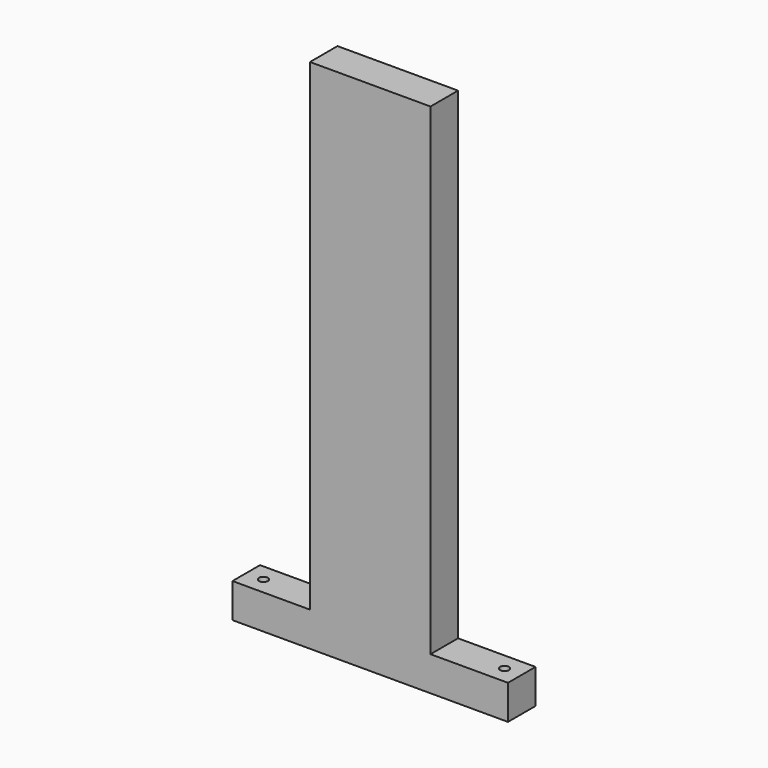
from build123d import *

# Parameters (mm, degrees)
F0_W     = 203.2
F0_H     = 25.4
F0_R     = 3.302
F1_DEPTH = 25.4
F2_W     = 88.9
F2_H     = 25.4
F3_DEPTH = 355.6


with BuildPart() as f1:
    # F0 (on Top) → F1 (new body)
    with BuildSketch(Plane.XY):
        Rectangle(F0_W, F0_H)
        with Locations((-88.9, 0)):
            Circle(F0_R, mode=Mode.SUBTRACT)
        with Locations((88.9, 0)):
            Circle(F0_R, mode=Mode.SUBTRACT)
    extrude(amount=F1_DEPTH)

    # F2 (on face) → F3 (join)
    with BuildSketch(Plane.XY.offset(25.4)):
        Rectangle(F2_W, F2_H)
        Rectangle(F2_W, F2_H)
    extrude(amount=F3_DEPTH)


solid = f1.part
